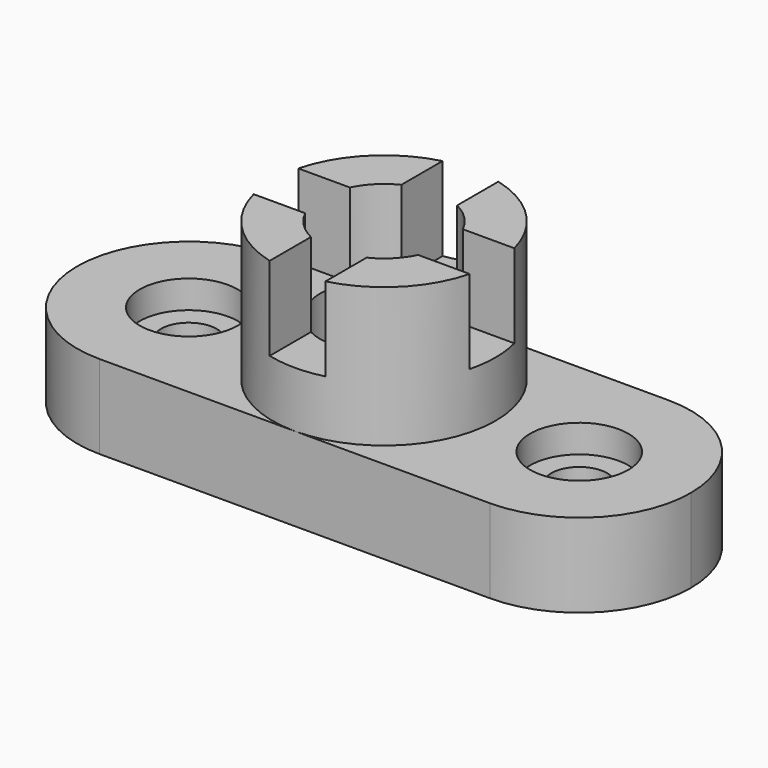
from build123d import *

# Parameters (mm, degrees)
F1_DEPTH  = 19.05
F2_R      = 11.176
F3_DEPTH  = 6.35
F4_R      = 6.35
F5_DEPTH  = 19.051
F6_R      = 25.4
F7_DEPTH  = 31.75
F8_R      = 14.351
F9_DEPTH  = 50.801
F11_DEPTH = 19.05
F13_DEPTH = 19.05


with BuildPart() as f1:
    # F0 (on Top) → F1 (new body)
    with BuildSketch(Plane.XY):
        with BuildLine():
            ThreePointArc((-41.940726, 57.339477), (-23.980214, 49.899989), (-16.540726, 31.939477))
            ThreePointArc((-16.540726, 31.939477), (-23.980214, 13.978964), (-41.940726, 6.539477))
            Line((-41.940726, 6.539477), (46.959274, 6.539477))
            ThreePointArc((46.959274, 6.539477), (21.559274, 31.939477), (46.959274, 57.339477))
            Line((46.959274, 57.339477), (-41.940726, 57.339477))
        make_face()
        with BuildLine():
            ThreePointArc((-41.940726, 6.539477), (-23.980214, 13.978964), (-16.540726, 31.939477))
            ThreePointArc((-16.540726, 31.939477), (-23.980214, 49.899989), (-41.940726, 57.339477))
            ThreePointArc((-41.940726, 57.339477), (-67.340726, 31.939477), (-41.940726, 6.539477))
        make_face()
        with BuildLine():
            ThreePointArc((72.359274, 31.939477), (64.919786, 49.899989), (46.959274, 57.339477))
            ThreePointArc((46.959274, 57.339477), (21.559274, 31.939477), (46.959274, 6.539477))
            ThreePointArc((46.959274, 6.539477), (64.919786, 13.978964), (72.359274, 31.939477))
        make_face()
    extrude(amount=-F1_DEPTH)

    # F2 (on face) → F3 (cut)
    with BuildSketch(Plane.XY):
        with Locations((-41.940726, 31.939477)):
            Circle(F2_R)
        with Locations((46.959274, 31.939477)):
            Circle(F2_R)
    extrude(amount=-F3_DEPTH, mode=Mode.SUBTRACT)

    # F4 (on face) → F5 (cut, through all)
    with BuildSketch(Plane.XY):
        with Locations((-41.940726, 31.939477)):
            Circle(F4_R)
        with Locations((46.959274, 31.939477)):
            Circle(F4_R)
    extrude(amount=-F5_DEPTH, mode=Mode.SUBTRACT)

    # F6 (on face) → F7 (join)
    with BuildSketch(Plane.XY):
        with Locations((2.509274, 31.939477)):
            Circle(F6_R)
    extrude(amount=F7_DEPTH)

    # F8 (on face) → F9 (cut, through all)
    with BuildSketch(Plane.XY.offset(31.75)):
        with Locations((2.509274, 31.939477)):
            Circle(F8_R)
    extrude(amount=-F9_DEPTH, mode=Mode.SUBTRACT)

    # F10 (on face) → F11 (cut)
    with BuildSketch(Plane.XY.offset(31.75)):
        Polygon((8.859274, 57.339477), (2.509274, 57.339477), (-3.840726, 57.339477), (-3.840726, 6.539477), (8.859274, 6.539477), align=None)
    extrude(amount=-F11_DEPTH, mode=Mode.SUBTRACT)

    # F12 (on face) → F13 (cut)
    with BuildSketch(Plane.XY.offset(31.75)):
        Polygon((27.909274, 25.589477), (27.909274, 31.939477), (27.909274, 38.289477), (-22.890726, 38.289477), (-22.890726, 25.589477), align=None)
    extrude(amount=-F13_DEPTH, mode=Mode.SUBTRACT)


solid = f1.part
